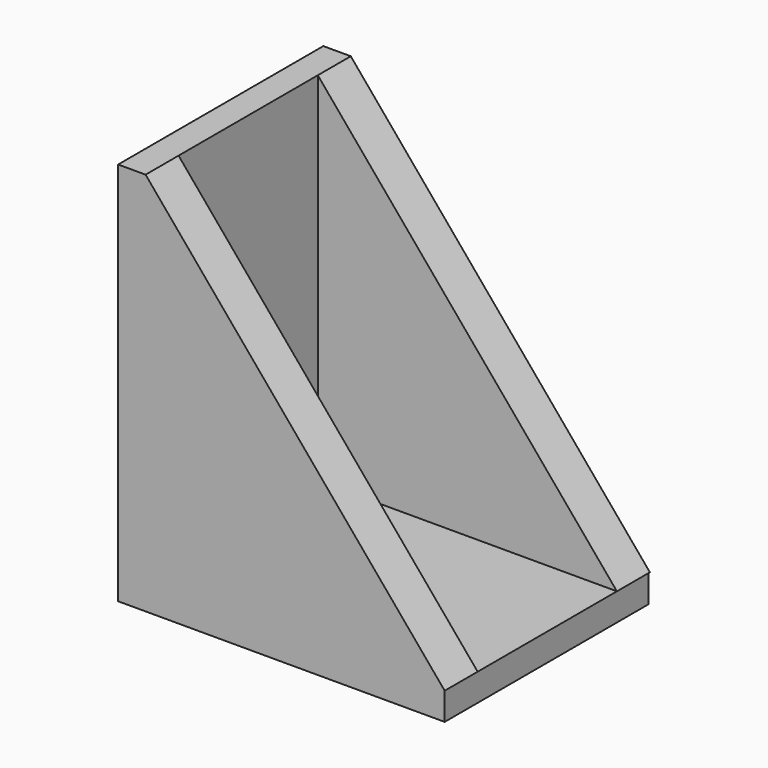
from build123d import *

# Parameters (mm, degrees)
F1_DEPTH = 35.56
F2_W     = 27.6606
F2_H     = 23.5712
F4_DEPTH = 2.54
F7_DEPTH = 3.81
F8_DEPTH = 3.81


with BuildPart() as f1:
    # F0 (on Top) → F1 (new body)
    with BuildSketch(Plane.XY):
        Polygon((0, 12.2589374599), (0, 12.1117923089), (0, -11.4594076911), (2.54, -11.4594076911), (2.54, 12.2589374599), align=None)
    extrude(amount=F1_DEPTH)


with BuildPart() as f1_1:
    # F3: moved
    add(f1.part.moved(Location((-0.1992022446, -0.1268434648, 0))))

    # F2 (on Top) → F4 (join)
    with BuildSketch(Plane.XY):
        with Locations((16.1710977554, 0.1993488441)):
            Rectangle(F2_W, F2_H)
    extrude(amount=F4_DEPTH)

    # F5 (on face) → F7 (join)
    with BuildSketch(Plane.XZ.offset(11.5862511559)):
        Polygon((30.0013977554, 2.54), (2.3407977554, 35.56), (2.3407977554, 2.54), align=None)
    extrude(amount=-F7_DEPTH)

    # F6 (on face) → F8 (join)
    with BuildSketch(Plane(origin=(0, 12.1320939951, 0), x_dir=(-1, 0, 0), z_dir=(0, 1, 0))):
        Polygon((-2.3407977554, 35.56), (-30.0013977554, 2.54), (-2.3407977554, 2.54), align=None)
    extrude(amount=-F8_DEPTH)


solid = f1_1.part
